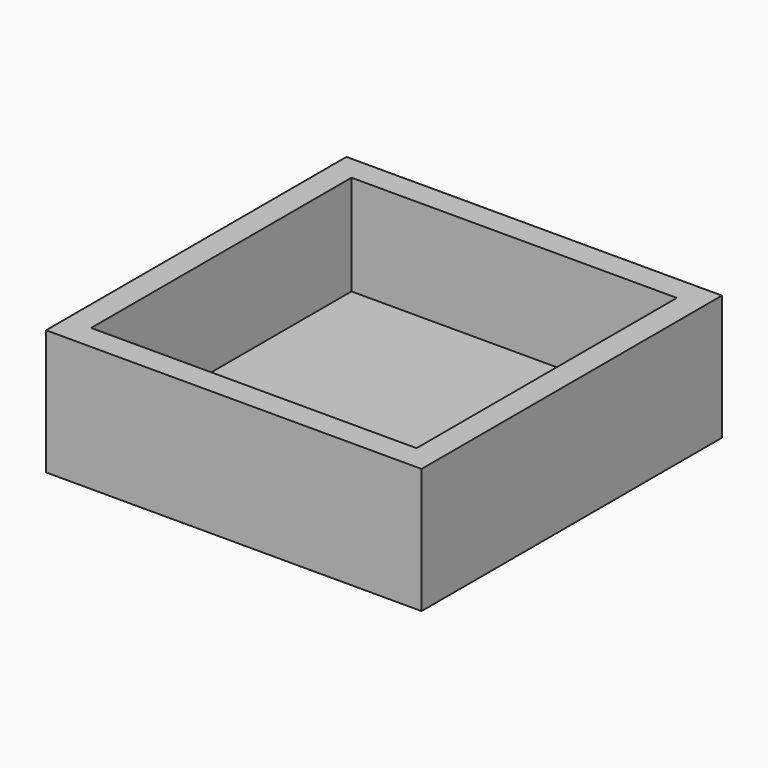
from build123d import *

# Parameters (mm, degrees)
BOX_W        = 30
BOX_H        = 30
BOX_DEPTH    = 10
BOX001_W     = 26
BOX001_H     = 26
BOX001_DEPTH = 8


with BuildPart() as part:
    # Box → Box (join)
    with BuildSketch(Plane.XY):
        with Locations((15, 15)):
            Rectangle(BOX_W, BOX_H)
    extrude(amount=BOX_DEPTH)

    # Box001 → Box001 (cut)
    with BuildSketch(Plane(origin=(2, 2, 2), x_dir=(1, 0, 0), z_dir=(0, 0, 1))):
        with Locations((13, 13)):
            Rectangle(BOX001_W, BOX001_H)
    extrude(amount=BOX001_DEPTH, mode=Mode.SUBTRACT)


solid = part.part
